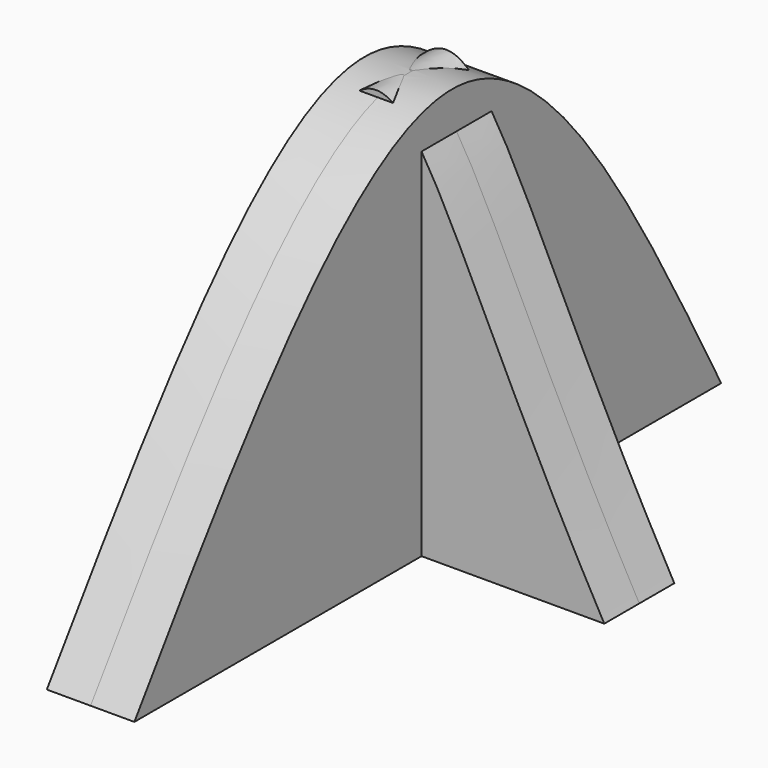
from build123d import *

# Parameters (mm, degrees)
F2_DEPTH      = 5
F2_DEPTH_BACK = 5
F3_DEPTH      = 5
F3_DEPTH_BACK = 5


with BuildPart() as f2:
    # F0 (on Right) → F2 (new body, two sides)
    with BuildSketch(Plane.YZ) as f2_sk:
        with BuildLine():
            add(Edge.make_bspline(
                [(-46.0017398, 0), (-30.1168439615, 22.9386864885), (0.9502083205, 67.8012641008), (25.6947368385, 22.2570164337), (37.7871394157, 0)],
                knots=[0, 0, 0, 0, 0.511310043, 1, 1, 1, 1], degree=3))
            Line((-46.0017398, 0), (37.7871394157, 0))
        make_face()
    extrude(amount=F2_DEPTH)
    extrude(f2_sk.sketch, amount=-F2_DEPTH_BACK)

    # F1 (on Front) → F3 (join, two sides)
    with BuildSketch(Plane.XZ) as f3_sk:
        with BuildLine():
            add(Edge.make_bspline(
                [(-18.8935715705, 0), (-11.2042661333, 29.4756795604), (0.5364959483, 62.0936430885), (10.8057544901, 26.9981661907), (25.8759763092, 0)],
                knots=[0, 0, 0, 0, 0.492342861, 1, 1, 1, 1], degree=3))
            Line((-18.8935715705, 0), (25.8759763092, 0))
        make_face()
    extrude(amount=F3_DEPTH)
    extrude(f3_sk.sketch, amount=-F3_DEPTH_BACK)


solid = f2.part
